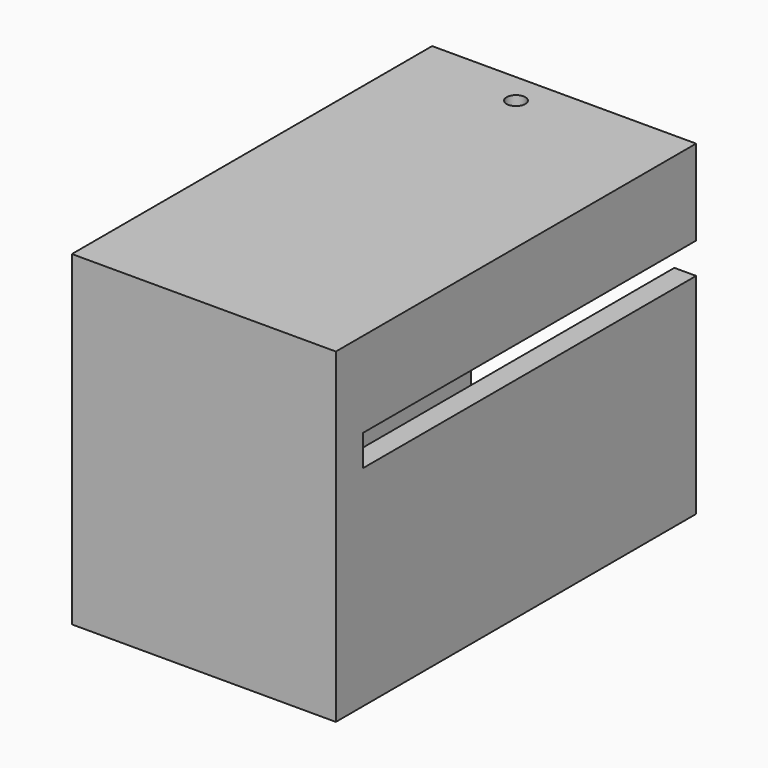
from build123d import *

# Parameters (mm, degrees)
SKETCH012_W     = 17
SKETCH012_H     = 21
PAD009_DEPTH    = 29
SKETCH013_W     = 13.1
SKETCH013_H     = 17
POCKET001_DEPTH = 25.7
SKETCH014_W     = 11.5
SKETCH014_H     = 1.2
SKETCH014_W_2   = 1.4
SKETCH014_H_2   = 2
POCKET002_DEPTH = 26.8
SKETCH016_R     = 0.6
POCKET003_DEPTH = 50
SKETCH022_W     = 0.6
SKETCH022_H     = 3
POCKET005_DEPTH = 2.5


with BuildPart() as part:
    # Sketch012 → Pad009 (new body)
    with BuildSketch(Plane.XZ):
        with Locations((1.5, 2)):
            Rectangle(SKETCH012_W, SKETCH012_H)
    extrude(amount=PAD009_DEPTH)

    # Sketch013 (on Face5 of Pad009) → Pocket001 (cut)
    with BuildSketch(Plane(origin=(0, 0, 0), x_dir=(1, 0, 0), z_dir=(0, 1, 0))):
        with Locations((2.05, -2)):
            Rectangle(SKETCH013_W, SKETCH013_H)
    extrude(amount=-POCKET001_DEPTH, mode=Mode.SUBTRACT)

    # Sketch014 (on Face4 of Pocket001) → Pocket002 (cut)
    with BuildSketch(Plane(origin=(0, 0, 0), x_dir=(1, 0, 0), z_dir=(0, 1, 0))):
        Rectangle(SKETCH014_W, SKETCH014_H)
        with Locations((9.3, -6)):
            Rectangle(SKETCH014_W_2, SKETCH014_H_2)
    extrude(amount=-POCKET002_DEPTH, mode=Mode.SUBTRACT)

    # Sketch016 (on Face6 of Pocket002) → Pocket003 (cut)
    with BuildSketch(Plane(origin=(0, 0, -8.5), x_dir=(1, 0, 0), z_dir=(0, 0, -1))):
        with Locations((0, 2)):
            Circle(SKETCH016_R)
    extrude(amount=-POCKET003_DEPTH, mode=Mode.SUBTRACT)

    # Sketch022 (on Face21 of Pocket003) → Pocket005 (cut)
    with BuildSketch(Plane(origin=(8.6, 0, 0), x_dir=(0, 0, 1), z_dir=(1, 0, 0))):
        with Locations((0, -9)):
            Rectangle(SKETCH022_W, SKETCH022_H)
    extrude(amount=-POCKET005_DEPTH, mode=Mode.SUBTRACT)


solid = part.part
